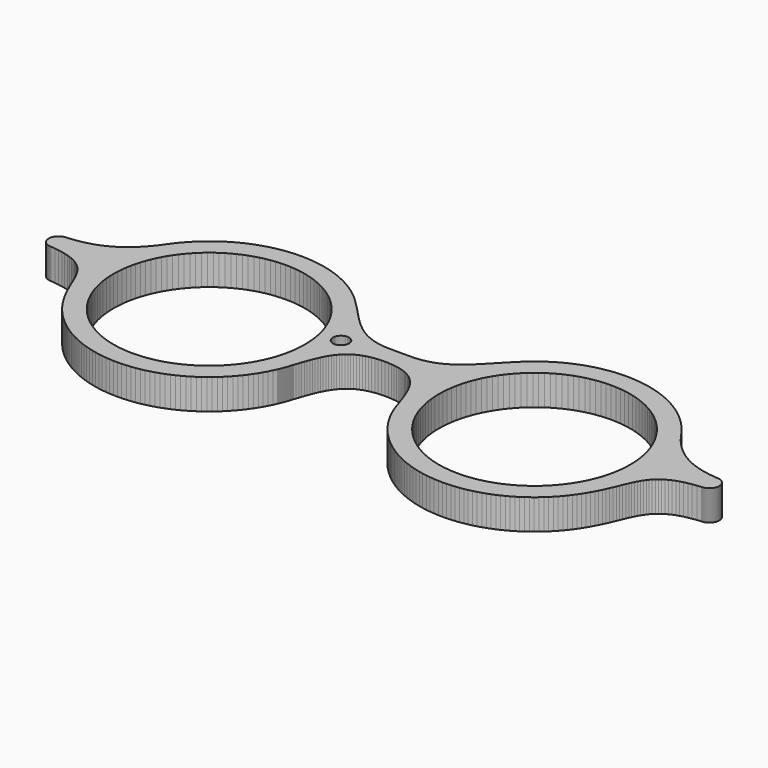
from build123d import *

# Parameters (mm, degrees)
F1_DEPTH = 6


with BuildPart() as f1:
    # F0 (on Top) → F1 (new body)
    with BuildSketch(Plane.XY):
        Polygon((66.317744, 3.000334), (66.315332, 3.099725), (66.307753, 3.197738), (66.295695, 3.294373), (66.27847, 3.389458), (66.25711, 3.48282), (66.230927, 3.574459), (66.200611, 3.664204), (66.16616, 3.751882), (66.127575, 3.837492), (66.084855, 3.920691), (66.038347, 4.001479), (65.988048, 4.079855), (65.934305, 4.155647), (65.876772, 4.228511), (65.816138, 4.298618), (65.752404, 4.365625), (65.685224, 4.429532), (65.615289, 4.490338), (65.542597, 4.547699), (65.466805, 4.601442), (65.388602, 4.651568), (65.307642, 4.698077), (65.224271, 4.740624), (65.138832, 4.779381), (65.051327, 4.814005), (64.96141, 4.844321), (64.86977, 4.870332), (64.776408, 4.892036), (64.681324, 4.909089), (64.584861, 4.921319), (64.486676, 4.928726), (64.387457, 4.93131), (63.933049, 4.970929), (63.480019, 5.018126), (63.028711, 5.073592), (62.578782, 5.138016), (62.130575, 5.212085), (61.68409, 5.295973), (61.239329, 5.390541), (60.796634, 5.496478), (60.355317, 5.6143), (59.916067, 5.744697), (59.478885, 5.888013), (59.043769, 6.044937), (58.610721, 6.216158), (58.179739, 6.402194), (57.750825, 6.603732), (57.324322, 6.821289), (56.899886, 7.055556), (56.477862, 7.306703), (56.05825, 7.57611), (55.641048, 7.863603), (55.226259, 8.170217), (54.813881, 8.496467), (54.404259, 8.842871), (53.997049, 9.210119), (53.592595, 9.598725), (53.191241, 10.009209), (52.792299, 10.442429), (52.396458, 10.898732), (52.003372, 11.378806), (51.613387, 11.88334), (51.226159, 12.412679), (50.84203, 12.967684), (50.448945, 13.514593), (50.039668, 14.0491), (49.615576, 14.571204), (49.176671, 15.080389), (48.722952, 15.576311), (48.255108, 16.058624), (47.773139, 16.527157), (47.277735, 16.981393), (46.769239, 17.420987), (46.247651, 17.845767), (45.713661, 18.255217), (45.167269, 18.649163), (44.608819, 19.02709), (44.039345, 19.388825), (43.458157, 19.734024), (42.86629, 20.062169), (42.263743, 20.373089), (41.65086, 20.666267), (41.027987, 20.94153), (40.396156, 21.198534), (39.75468, 21.436935), (39.104246, 21.656387), (38.445543, 21.856547), (37.778228, 22.03707), (37.10299, 22.197612), (36.420516, 22.337999), (35.730808, 22.457544), (35.03421, 22.556074), (34.331066, 22.633244), (33.621721, 22.688882), (32.906519, 22.722472), (32.18546, 22.733841), (31.594626, 22.726262), (31.007238, 22.703696), (30.423983, 22.666145), (29.844518, 22.614124), (29.269532, 22.547634), (28.698679, 22.466674), (28.132305, 22.371761), (27.571099, 22.262896), (27.014717, 22.140251), (26.463501, 22.00417), (25.917798, 21.854825), (25.377607, 21.692044), (24.842928, 21.516344), (24.314451, 21.327897), (23.791485, 21.126876), (23.275065, 20.91328), (22.765191, 20.687454), (22.261518, 20.449743), (21.76508, 20.199973), (21.275532, 19.938663), (20.793219, 19.665811), (20.31814, 19.381591), (19.85064, 19.086346), (19.391065, 18.780077), (18.939068, 18.462956), (18.49534, 18.135327), (18.05988, 17.797364), (17.632688, 17.449237), (17.214453, 17.090947), (16.804832, 16.722838), (16.404167, 16.345084), (16.012804, 15.958027), (15.582512, 15.533591), (15.162899, 15.11105), (14.752933, 14.690921), (14.351235, 14.274237), (13.956427, 13.861687), (13.56782, 13.453959), (13.184036, 13.051917), (12.804387, 12.656075), (12.427149, 12.267641), (12.051633, 11.886958), (11.676462, 11.51506), (11.300602, 11.152636), (10.922676, 10.800375), (10.541992, 10.458966), (10.157175, 10.129442), (9.76719, 9.812494), (9.371005, 9.508808), (8.966895, 9.219076), (8.554517, 8.944157), (8.132493, 8.684914), (7.699444, 8.442035), (7.254682, 8.216209), (6.796829, 8.008297), (6.324507, 7.818989), (5.836681, 7.649146), (5.332664, 7.499284), (4.811076, 7.370438), (4.270541, 7.263295), (3.710024, 7.178546), (3.128836, 7.117223), (2.525255, 7.079844), (1.898248, 7.067269), (0, 7.067269), (-1.898247, 7.067269), (-2.52491, 7.079844), (-3.128491, 7.117223), (-3.710023, 7.178546), (-4.270368, 7.263295), (-4.810731, 7.370438), (-5.332663, 7.499284), (-5.83668, 7.649146), (-6.324334, 7.818989), (-6.796656, 8.008297), (-7.25451, 8.216209), (-7.699444, 8.442035), (-8.132492, 8.684914), (-8.554689, 8.944157), (-8.967067, 9.219076), (-9.370832, 9.508808), (-9.76719, 9.812494), (-10.157175, 10.129442), (-10.541992, 10.458966), (-10.922503, 10.800375), (-11.300257, 11.152636), (-11.676117, 11.51506), (-12.051288, 11.886958), (-12.426804, 12.267641), (-12.804042, 12.656075), (-13.183863, 13.051917), (-13.567475, 13.453959), (-13.956082, 13.861687), (-14.350889, 14.274237), (-14.75276, 14.690921), (-15.162898, 15.11105), (-15.582511, 15.533591), (-16.012804, 15.958027), (-16.404166, 16.345084), (-16.804659, 16.722838), (-17.214281, 17.090947), (-17.632687, 17.449237), (-18.059707, 17.797364), (-18.495167, 18.135327), (-18.938895, 18.462956), (-19.39072, 18.780077), (-19.850468, 19.086346), (-20.317967, 19.381591), (-20.793218, 19.665811), (-21.275531, 19.938663), (-21.765079, 20.199973), (-22.261518, 20.449743), (-22.764846, 20.687454), (-23.274893, 20.91328), (-23.791312, 21.126876), (-24.313933, 21.327897), (-24.842756, 21.516344), (-25.377262, 21.692044), (-25.917625, 21.854825), (-26.463501, 22.00417), (-27.014716, 22.140251), (-27.570927, 22.262896), (-28.132305, 22.371761), (-28.698334, 22.466674), (-29.269014, 22.547634), (-29.844173, 22.614124), (-30.423466, 22.666145), (-31.006893, 22.703696), (-31.594281, 22.726262), (-32.185115, 22.733841), (-32.906002, 22.722472), (-33.621203, 22.688882), (-34.330721, 22.633244), (-35.033865, 22.556074), (-35.730635, 22.457544), (-36.420343, 22.337999), (-37.102989, 22.197612), (-37.777883, 22.03707), (-38.445026, 21.856547), (-39.103901, 21.656387), (-39.754335, 21.436935), (-40.395811, 21.198534), (-41.027986, 20.94153), (-41.650687, 20.666267), (-42.263398, 20.373089), (-42.865945, 20.062169), (-43.457984, 19.734024), (-44.039, 19.388825), (-44.608991, 19.02709), (-45.167096, 18.649163), (-45.713488, 18.255217), (-46.247651, 17.845767), (-46.769238, 17.420987), (-47.277734, 16.981393), (-47.773139, 16.527157), (-48.254935, 16.058624), (-48.722779, 15.576311), (-49.176498, 15.080389), (-49.615576, 14.571204), (-50.039667, 14.0491), (-50.4486, 13.514593), (-50.84203, 12.967684), (-51.225814, 12.413196), (-51.612698, 11.884029), (-52.002855, 11.379668), (-52.39594, 10.899593), (-52.792126, 10.443118), (-53.19124, 10.009553), (-53.593283, 9.598553), (-53.998254, 9.20943), (-54.405981, 8.841666), (-54.816292, 8.494572), (-55.229014, 8.167633), (-55.644493, 7.86033), (-56.062555, 7.571976), (-56.482857, 7.302052), (-56.905742, 7.049871), (-57.330695, 6.815088), (-57.757887, 6.597014), (-58.187318, 6.394787), (-58.618816, 6.208062), (-59.052381, 6.036497), (-59.487842, 5.879228), (-59.925196, 5.73574), (-60.364274, 5.605515), (-60.805246, 5.487865), (-61.247941, 5.382273), (-61.692014, 5.28805), (-62.137637, 5.204851), (-62.58481, 5.131815), (-63.033362, 5.068425), (-63.483463, 5.014337), (-63.934599, 4.968862), (-64.387112, 4.93131), (-64.486503, 4.928726), (-64.584516, 4.921319), (-64.681151, 4.909089), (-64.776235, 4.892036), (-64.869597, 4.870332), (-64.961237, 4.844321), (-65.050982, 4.814005), (-65.138659, 4.779381), (-65.224098, 4.740624), (-65.307469, 4.698077), (-65.388257, 4.651568), (-65.466632, 4.601442), (-65.542252, 4.547699), (-65.615116, 4.490338), (-65.685224, 4.429532), (-65.752231, 4.365625), (-65.816137, 4.298618), (-65.876771, 4.228511), (-65.934132, 4.155647), (-65.988048, 4.079855), (-66.038346, 4.001479), (-66.084855, 3.920691), (-66.127402, 3.837492), (-66.165987, 3.752054), (-66.200438, 3.664376), (-66.230927, 3.574631), (-66.256937, 3.48282), (-66.278469, 3.389458), (-66.295522, 3.294373), (-66.307753, 3.197738), (-66.315159, 3.099725), (-66.317743, 3.000334), (-66.315159, 2.900943), (-66.307753, 2.80293), (-66.295522, 2.706295), (-66.278469, 2.61121), (-66.256937, 2.517848), (-66.230927, 2.426037), (-66.200438, 2.336292), (-66.165987, 2.248614), (-66.127402, 2.163176), (-66.084855, 2.079977), (-66.038346, 1.999189), (-65.988048, 1.920813), (-65.934132, 1.845021), (-65.876771, 1.772157), (-65.816137, 1.70205), (-65.752231, 1.635043), (-65.685224, 1.571136), (-65.615116, 1.51033), (-65.542252, 1.452969), (-65.466632, 1.399226), (-65.388257, 1.3491), (-65.307469, 1.302591), (-65.224098, 1.260044), (-65.138659, 1.221287), (-65.050982, 1.186663), (-64.961237, 1.156347), (-64.869597, 1.130336), (-64.776235, 1.108632), (-64.681151, 1.091579), (-64.584516, 1.079349), (-64.486503, 1.071942), (-64.387112, 1.069358), (-64.387112, 1.069186), (-64.387112, 1.069013), (-63.509474, 0.977029), (-62.692469, 0.862997), (-61.932998, 0.726915), (-61.228304, 0.569302), (-60.57563, 0.390674), (-59.97205, 0.191375), (-59.414461, -0.028249), (-58.90028, -0.268028), (-58.426408, -0.527444), (-57.990086, -0.805463), (-57.58856, -1.10243), (-57.218902, -1.418345), (-56.878182, -1.751831), (-56.563472, -2.102886), (-56.271845, -2.471167), (-56.000544, -2.856328), (-55.74664, -3.258026), (-55.507378, -3.675572), (-55.280002, -4.108621), (-55.061238, -4.557172), (-54.848504, -5.020193), (-54.63887, -5.498028), (-54.429408, -5.989987), (-54.217362, -6.495383), (-53.999804, -7.014214), (-53.773634, -7.546137), (-53.536267, -8.090462), (-53.284947, -8.646845), (-53.016574, -9.214941), (-52.72822, -9.794406), (-52.417128, -10.384551), (-52.080197, -10.985376), (-51.70606, -11.634776), (-51.311252, -12.270741), (-50.896635, -12.892236), (-50.462208, -13.499606), (-50.008661, -14.091818), (-49.536339, -14.668527), (-49.045929, -15.229044), (-48.537606, -15.773714), (-48.012056, -16.301158), (-47.469454, -16.811377), (-46.910487, -17.303681), (-46.3355, -17.77807), (-45.745011, -18.233857), (-45.139536, -18.67035), (-44.519418, -19.087207), (-43.885176, -19.484082), (-43.237326, -19.860286), (-42.57604, -20.21582), (-41.902007, -20.54965), (-41.215744, -20.861775), (-40.517423, -21.151508), (-39.807906, -21.418503), (-39.087536, -21.662071), (-38.356487, -21.882213), (-37.615447, -22.078239), (-36.864761, -22.249115), (-36.104945, -22.395532), (-35.336516, -22.51611), (-34.55982, -22.61085), (-33.775544, -22.678719), (-32.983688, -22.72006), (-32.185115, -22.73384), (-31.316951, -22.717304), (-30.457055, -22.668728), (-29.605772, -22.588113), (-28.763791, -22.476836), (-27.931973, -22.334898), (-27.11049, -22.162643), (-26.300031, -21.961105), (-25.501286, -21.730973), (-24.71477, -21.472591), (-23.941174, -21.186648), (-23.181014, -20.873489), (-22.434806, -20.533802), (-21.70324, -20.168278), (-20.986832, -19.777604), (-20.286272, -19.362125), (-19.601904, -18.922876), (-18.934589, -18.459855), (-18.284672, -17.974096), (-17.653013, -17.465945), (-17.040131, -16.936089), (-16.446369, -16.385218), (-15.872588, -15.813677), (-15.319306, -15.222154), (-14.787039, -14.611339), (-14.276475, -13.98192), (-13.787961, -13.333897), (-13.322528, -12.668305), (-12.880178, -11.985831), (-12.461944, -11.286821), (-12.068341, -10.572309), (-11.699889, -9.842293), (-11.357102, -9.097808), (-11.322651, -9.018571), (-11.288372, -8.938644), (-11.254265, -8.858374), (-11.220331, -8.777758), (-11.186742, -8.696454), (-11.153152, -8.61515), (-11.119907, -8.533501), (-11.087006, -8.451508), (-11.054278, -8.36917), (-11.021721, -8.286832), (-10.98951, -8.20415), (-10.95747, -8.121123), (-10.925776, -8.037752), (-10.894425, -7.954381), (-10.863247, -7.871009), (-10.832413, -7.786949), (-10.801752, -7.702889), (-10.771608, -7.618828), (-10.741635, -7.534768), (-10.712007, -7.450363), (-10.682896, -7.365958), (-10.653958, -7.281553), (-10.625363, -7.197149), (-10.597113, -7.112744), (-10.56938, -7.028339), (-10.541992, -6.943934), (-10.514776, -6.859529), (-10.488248, -6.775124), (-10.461893, -6.691064), (-10.436055, -6.606659), (-10.410562, -6.522599), (-10.385585, -6.438883), (-10.218497, -5.950369), (-10.052961, -5.467022), (-9.888113, -4.989876), (-9.722748, -4.518931), (-9.555489, -4.055566), (-9.385301, -3.600124), (-9.211152, -3.153296), (-9.031318, -2.715768), (-8.844938, -2.288232), (-8.650979, -1.871031), (-8.447891, -1.465543), (-8.234639, -1.071769), (-8.010191, -0.690741), (-7.772996, -0.32315), (-7.522366, 0.030489), (-7.256577, 0.369487), (-6.974768, 0.693154), (-6.675561, 1.000801), (-6.357923, 1.291911), (-6.020476, 1.565452), (-5.662186, 1.821078), (-5.281848, 2.0581), (-4.878083, 2.275658), (-4.45003, 2.473062), (-3.996138, 2.649796), (-3.515375, 2.805169), (-3.006707, 2.938495), (-2.468755, 3.049254), (-1.900142, 3.136415), (-1.300007, 3.199461), (-0.66697, 3.237873), (0, 3.250792), (0.667315, 3.237873), (1.300179, 3.199461), (1.900659, 3.136415), (2.4691, 3.049254), (3.00688, 2.938495), (3.51572, 2.805169), (3.996656, 2.649796), (4.450375, 2.473062), (4.8786, 2.275658), (5.282365, 2.0581), (5.662704, 1.821078), (6.020994, 1.565452), (6.358269, 1.291911), (6.675906, 1.000801), (6.974941, 0.693154), (7.256749, 0.369487), (7.522366, 0.030489), (7.773169, -0.32315), (8.010192, -0.690741), (8.234812, -1.071769), (8.448063, -1.465543), (8.65098, -1.871031), (8.844938, -2.288232), (9.031318, -2.715768), (9.211152, -3.153296), (9.385474, -3.600124), (9.555662, -4.055566), (9.723093, -4.518931), (9.888458, -4.989876), (10.053133, -5.467022), (10.218498, -5.950369), (10.385585, -6.438883), (10.410734, -6.522599), (10.435884, -6.606659), (10.462066, -6.691064), (10.488249, -6.775124), (10.514776, -6.859529), (10.541648, -6.943934), (10.569209, -7.028339), (10.597114, -7.112744), (10.625364, -7.197149), (10.653958, -7.281553), (10.682897, -7.365958), (10.71218, -7.450363), (10.741808, -7.534768), (10.771436, -7.618828), (10.801753, -7.702889), (10.832414, -7.786949), (10.86342, -7.871009), (10.894426, -7.954381), (10.926121, -8.037752), (10.957815, -8.121123), (10.989855, -8.20415), (11.021894, -8.286832), (11.054623, -8.36917), (11.087351, -8.451508), (11.120424, -8.533501), (11.153497, -8.61515), (11.186914, -8.696454), (11.220676, -8.777758), (11.254438, -8.858374), (11.288545, -8.938644), (11.322996, -9.018571), (11.357447, -9.097808), (11.700234, -9.842293), (12.068859, -10.572309), (12.462289, -11.286821), (12.880523, -11.985831), (13.322874, -12.668305), (13.788306, -13.333897), (14.27682, -13.98192), (14.787384, -14.611339), (15.319651, -15.222154), (15.872933, -15.813677), (16.446886, -16.385218), (17.040476, -16.936089), (17.653359, -17.465945), (18.284845, -17.974096), (18.93459, -18.459855), (19.601905, -18.922876), (20.286101, -19.362125), (20.986833, -19.777604), (21.703068, -20.168278), (22.434807, -20.533802), (23.181014, -20.873489), (23.941002, -21.186648), (24.714771, -21.472591), (25.501286, -21.730973), (26.300204, -21.961105), (27.11049, -22.162643), (27.932145, -22.334898), (28.764136, -22.476836), (29.606117, -22.588113), (30.4574, -22.668728), (31.317296, -22.717304), (32.18546, -22.73384), (32.984033, -22.72006), (33.775716, -22.679063), (34.560165, -22.61085), (35.336689, -22.516455), (36.104945, -22.396221), (36.864934, -22.250149), (37.61562, -22.079272), (38.35666, -21.883591), (39.087709, -21.663794), (39.808079, -21.42057), (40.517768, -21.153919), (41.215745, -20.864531), (41.902008, -20.55275), (42.575868, -20.219265), (43.236982, -19.864076), (43.88466, -19.488216), (44.518558, -19.091685), (45.138675, -18.675173), (45.744323, -18.239024), (46.334812, -17.783927), (46.909798, -17.309882), (47.468593, -16.817922), (48.010851, -16.308048), (48.536573, -15.780604), (49.044724, -15.236279), (49.535306, -14.675762), (50.007628, -14.099397), (50.461003, -13.50753), (50.895429, -12.900504), (51.310219, -12.279009), (51.705027, -11.643044), (52.079164, -10.993644), (52.416095, -10.392819), (52.727187, -9.80233), (53.015541, -9.222865), (53.284259, -8.654769), (53.535751, -8.098386), (53.773118, -7.553716), (53.999116, -7.021449), (54.216846, -6.502617), (54.429064, -5.997222), (54.638181, -5.504918), (54.847987, -5.026738), (55.060894, -4.563029), (55.279658, -4.114133), (55.507379, -3.68074), (55.746813, -3.26285), (56.000372, -2.860807), (56.271501, -2.475301), (56.563301, -2.106676), (56.877838, -1.754931), (57.218902, -1.421102), (57.588561, -1.105186), (57.990259, -0.807875), (58.426753, -0.529166), (58.900453, -0.269406), (59.414462, -0.029455), (59.972222, 0.190514), (60.576148, 0.390157), (61.228649, 0.56913), (61.933515, 0.726915), (62.692814, 0.863169), (63.509647, 0.977374), (64.387457, 1.069358), (64.486676, 1.071942), (64.584861, 1.079349), (64.681324, 1.091579), (64.776408, 1.108632), (64.86977, 1.130336), (64.96141, 1.156347), (65.051327, 1.186663), (65.138832, 1.221287), (65.224271, 1.260044), (65.307642, 1.302591), (65.388602, 1.3491), (65.466805, 1.399226), (65.542597, 1.452969), (65.615289, 1.51033), (65.685224, 1.571136), (65.752404, 1.635043), (65.816138, 1.70205), (65.876772, 1.772157), (65.934305, 1.845021), (65.988048, 1.920813), (66.038347, 1.999189), (66.084855, 2.079977), (66.127575, 2.163176), (66.16616, 2.248786), (66.200611, 2.336464), (66.230927, 2.426209), (66.25711, 2.517848), (66.27847, 2.61121), (66.295695, 2.706295), (66.307753, 2.80293), (66.315332, 2.900943), align=None)
        Polygon((-13.267751, 0), (-13.292384, -0.972206), (-13.365592, -1.931665), (-13.486171, -2.877343), (-13.652741, -3.807864), (-13.86427, -4.722192), (-14.119724, -5.619295), (-14.417552, -6.497794), (-14.756722, -7.356657), (-15.136027, -8.194504), (-15.554261, -9.009958), (-16.010392, -9.801985), (-16.502868, -10.569553), (-17.030829, -11.311282), (-17.592897, -12.026139), (-18.187865, -12.713091), (-18.8147, -13.370415), (-19.472024, -13.997423), (-20.158804, -14.592391), (-20.873661, -15.154286), (-21.615562, -15.682419), (-22.38313, -16.174723), (-23.175329, -16.630854), (-23.990956, -17.049088), (-24.828631, -17.428393), (-25.687321, -17.767391), (-26.56582, -18.065391), (-27.462923, -18.321017), (-28.377423, -18.532546), (-29.308116, -18.698944), (-30.253622, -18.819523), (-31.213082, -18.892903), (-32.185115, -18.917363), (-33.157149, -18.892903), (-34.116608, -18.819523), (-35.062115, -18.698944), (-35.992807, -18.532546), (-36.907308, -18.321017), (-37.804411, -18.065391), (-38.68291, -17.767391), (-39.5416, -17.428393), (-40.379275, -17.049088), (-41.194901, -16.630854), (-41.987101, -16.174723), (-42.754668, -15.682419), (-43.49657, -15.154286), (-44.211427, -14.592391), (-44.898207, -13.997423), (-45.555531, -13.370415), (-46.182366, -12.713091), (-46.777334, -12.026139), (-47.339401, -11.311282), (-47.867362, -10.569553), (-48.359839, -9.801985), (-48.815969, -9.009958), (-49.234204, -8.194504), (-49.613509, -7.356657), (-49.952678, -6.497794), (-50.250507, -5.619295), (-50.505961, -4.722192), (-50.71749, -3.807864), (-50.88406, -2.877343), (-51.004638, -1.931665), (-51.077847, -0.972206), (-51.102479, 0), (-51.077847, 0.971862), (-51.004638, 1.931321), (-50.88406, 2.877), (-50.71749, 3.80752), (-50.505961, 4.72202), (-50.250507, 5.619123), (-49.952678, 6.497623), (-49.613509, 7.356313), (-49.234204, 8.19416), (-48.815969, 9.009614), (-48.359839, 9.801814), (-47.867362, 10.569381), (-47.339401, 11.31111), (-46.777334, 12.025967), (-46.182366, 12.712747), (-45.555531, 13.370071), (-44.898207, 13.996907), (-44.211427, 14.591875), (-43.49657, 15.153942), (-42.754668, 15.681903), (-41.987101, 16.174379), (-41.194901, 16.63051), (-40.379275, 17.048744), (-39.5416, 17.428049), (-38.68291, 17.767219), (-37.804411, 18.065048), (-36.907308, 18.320501), (-35.992807, 18.53203), (-35.062115, 18.698601), (-34.116608, 18.819179), (-33.157149, 18.892387), (-32.185115, 18.91702), (-31.213082, 18.892387), (-30.253622, 18.819179), (-29.308116, 18.698601), (-28.377423, 18.53203), (-27.462923, 18.320501), (-26.56582, 18.065048), (-25.687321, 17.767219), (-24.828631, 17.428049), (-23.990956, 17.048744), (-23.175329, 16.63051), (-22.38313, 16.174379), (-21.615562, 15.681903), (-20.873661, 15.153942), (-20.158804, 14.591875), (-19.472024, 13.996907), (-18.8147, 13.370071), (-18.187865, 12.712747), (-17.592897, 12.025967), (-17.030829, 11.31111), (-16.502868, 10.569381), (-16.010392, 9.801814), (-15.554261, 9.009614), (-15.136027, 8.19416), (-14.756722, 7.356313), (-14.417552, 6.497623), (-14.119724, 5.619123), (-13.86427, 4.72202), (-13.652741, 3.80752), (-13.486171, 2.877), (-13.365592, 1.931321), (-13.292384, 0.971862), align=None, mode=Mode.SUBTRACT)
        Polygon((51.10248, 0), (51.078019, -0.972206), (51.004639, -1.931665), (50.884061, -2.877343), (50.717662, -3.807864), (50.506134, -4.722192), (50.250508, -5.619295), (49.952507, -6.497794), (49.613509, -7.356657), (49.234204, -8.194504), (48.81597, -9.009958), (48.359839, -9.801985), (47.867535, -10.569553), (47.339402, -11.311282), (46.777507, -12.026139), (46.182539, -12.713091), (45.555531, -13.370415), (44.898207, -13.997423), (44.2116, -14.592391), (43.496742, -15.154286), (42.755013, -15.682419), (41.987446, -16.174723), (41.195074, -16.630854), (40.37962, -17.049088), (39.541773, -17.428393), (38.68291, -17.767391), (37.804411, -18.065391), (36.907308, -18.321017), (35.99298, -18.532546), (35.06246, -18.698944), (34.116781, -18.819523), (33.157666, -18.892903), (32.18546, -18.917363), (31.213254, -18.892903), (30.25414, -18.819523), (29.308461, -18.698944), (28.377941, -18.532546), (27.463612, -18.321017), (26.56651, -18.065391), (25.68801, -17.767391), (24.829148, -17.428393), (23.991301, -17.049088), (23.175502, -16.630854), (22.383475, -16.174723), (21.615907, -15.682419), (20.874178, -15.154286), (20.158977, -14.592391), (19.472369, -13.997423), (18.815045, -13.370415), (18.188382, -12.713091), (17.593414, -12.026139), (17.031174, -11.311282), (16.503041, -10.569553), (16.010393, -9.801985), (15.554262, -9.009958), (15.136027, -8.194504), (14.756722, -7.356657), (14.417725, -6.497794), (14.119724, -5.619295), (13.864787, -4.722192), (13.652914, -3.807864), (13.486171, -2.877343), (13.365593, -1.931665), (13.292212, -0.972206), (13.267752, 0), (13.292212, 0.971862), (13.365593, 1.931321), (13.486171, 2.877), (13.652914, 3.80752), (13.864787, 4.72202), (14.119724, 5.619123), (14.417725, 6.497623), (14.756722, 7.356313), (15.136027, 8.19416), (15.554262, 9.009614), (16.010393, 9.801814), (16.503041, 10.569381), (17.031174, 11.31111), (17.593414, 12.025967), (18.188382, 12.712747), (18.815045, 13.370071), (19.472369, 13.996907), (20.158977, 14.591875), (20.874178, 15.153942), (21.615907, 15.681903), (22.383475, 16.174379), (23.175502, 16.63051), (23.991301, 17.048744), (24.829148, 17.428049), (25.68801, 17.767219), (26.56651, 18.065048), (27.463612, 18.320501), (28.377941, 18.53203), (29.308461, 18.698601), (30.25414, 18.819179), (31.213254, 18.892387), (32.18546, 18.91702), (33.157666, 18.892387), (34.116781, 18.819179), (35.06246, 18.698601), (35.99298, 18.53203), (36.907308, 18.320501), (37.804411, 18.065048), (38.68291, 17.767219), (39.541773, 17.428049), (40.37962, 17.048744), (41.195074, 16.63051), (41.987446, 16.174379), (42.755013, 15.681903), (43.496742, 15.153942), (44.2116, 14.591875), (44.898207, 13.996907), (45.555531, 13.370071), (46.182539, 12.712747), (46.777507, 12.025967), (47.339402, 11.31111), (47.867535, 10.569381), (48.359839, 9.801814), (48.81597, 9.009614), (49.234204, 8.19416), (49.613509, 7.356313), (49.952507, 6.497623), (50.250508, 5.619123), (50.506134, 4.72202), (50.717662, 3.80752), (50.884061, 2.877), (51.004639, 1.931321), (51.078019, 0.971862), align=None, mode=Mode.SUBTRACT)
        Polygon((-8.148684, 4.54167), (-8.18124, 4.219209), (-8.27443, 3.918796), (-8.42188, 3.646978), (-8.617217, 3.4103), (-8.853895, 3.214963), (-9.125713, 3.067513), (-9.426125, 2.974324), (-9.748586, 2.941767), (-10.071047, 2.974324), (-10.37146, 3.067513), (-10.643278, 3.214963), (-10.879956, 3.4103), (-11.075293, 3.646978), (-11.222743, 3.918796), (-11.315933, 4.219209), (-11.348489, 4.54167), (-11.315933, 4.864131), (-11.222743, 5.164543), (-11.075293, 5.436361), (-10.879956, 5.673039), (-10.643278, 5.868376), (-10.37146, 6.015826), (-10.071047, 6.109016), (-9.748586, 6.141572), (-9.426125, 6.109016), (-9.125713, 6.015826), (-8.853895, 5.868376), (-8.617217, 5.673039), (-8.42188, 5.436361), (-8.27443, 5.164543), (-8.18124, 4.864131), align=None, mode=Mode.SUBTRACT)
    extrude(amount=F1_DEPTH)


solid = f1.part
